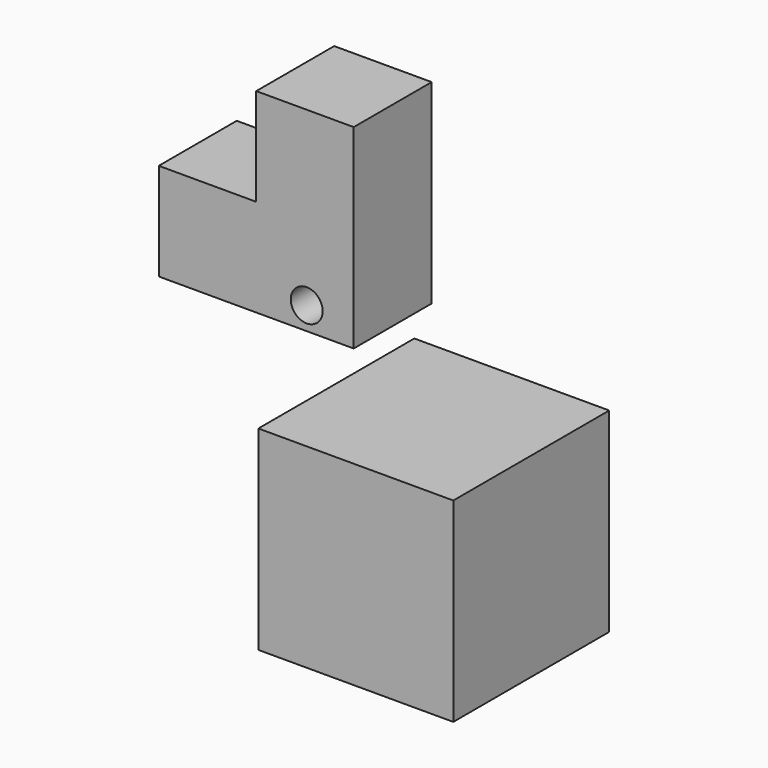
from build123d import *

# Parameters (mm, degrees)
F0_W     = 50.8
F0_H     = 50.8
F1_DEPTH = 50.8
F3_DEPTH = 25.4
F4_R     = 4.161619
F5_DEPTH = 75.946


with BuildPart() as f1:
    # F0 (on Front) → F1 (new body)
    with BuildSketch(Plane.XZ):
        Rectangle(F0_W, F0_H)
    extrude(amount=F1_DEPTH)


with BuildPart() as f3:
    # F2 (on Front) → F3 (new body)
    with BuildSketch(Plane.XZ):
        Polygon((-46.272175, 60.291409), (-71.672175, 60.291409), (-71.672175, 34.891409), (-20.872175, 34.891409), (-20.872175, 85.691409), (-46.272175, 85.691409), align=None)
    extrude(amount=F3_DEPTH)

    # F4 (on face) → F5 (cut)
    with BuildSketch(Plane.XZ.offset(25.4)):
        with Locations((-33.11985, 40.8266)):
            Circle(F4_R)
    extrude(amount=-F5_DEPTH, mode=Mode.SUBTRACT)


solid = Compound([f1.part, f3.part])
